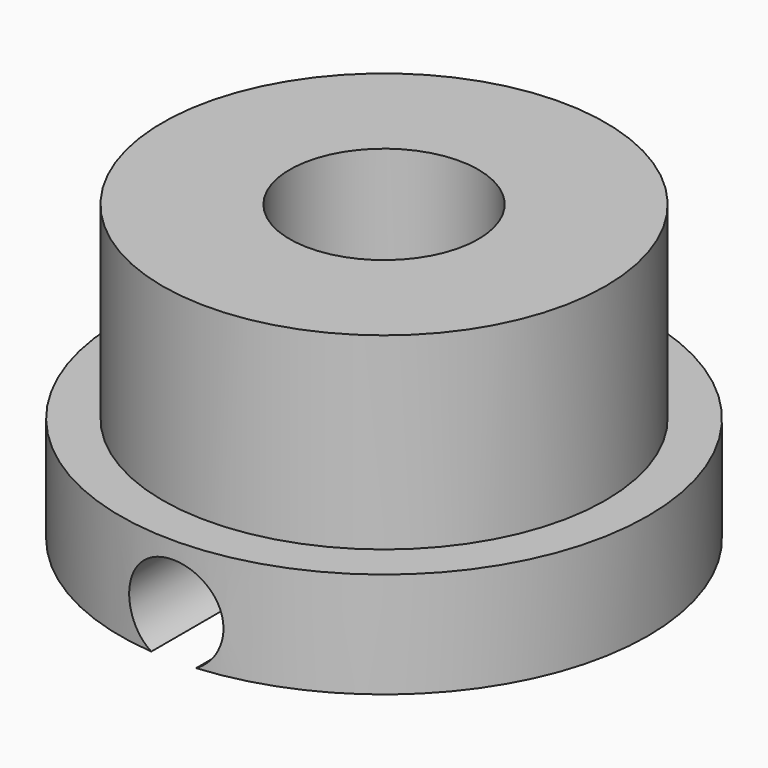
from build123d import *

# Parameters (mm, degrees)
F0_R          = 7
F1_DEPTH      = 2.8
F2_R          = 5.875
F3_DEPTH      = 5
F4_R          = 1.25
F5_DEPTH      = 7.001
F5_DEPTH_BACK = 7.001
F6_R          = 2.5
F7_DEPTH      = 6.1


with BuildPart() as f1:
    # F0 (on Top) → F1 (new body)
    with BuildSketch(Plane.XY):
        Circle(F0_R)
    extrude(amount=F1_DEPTH)

    # F2 (on face) → F3 (join)
    with BuildSketch(Plane.XY.offset(2.8)):
        Circle(F2_R)
    extrude(amount=F3_DEPTH)

    # F4 (on Front) → F5 (cut, two sides)
    with BuildSketch(Plane.XZ) as f5_sk:
        with Locations((0, 1.1)):
            Circle(F4_R)
    extrude(amount=-F5_DEPTH, mode=Mode.SUBTRACT)
    extrude(f5_sk.sketch, amount=F5_DEPTH_BACK, mode=Mode.SUBTRACT)

    # F6 (on face) → F7 (cut, through all)
    with BuildSketch(Plane.XY.offset(7.8)):
        Circle(F6_R)
    extrude(amount=-F7_DEPTH, mode=Mode.SUBTRACT)


solid = f1.part
